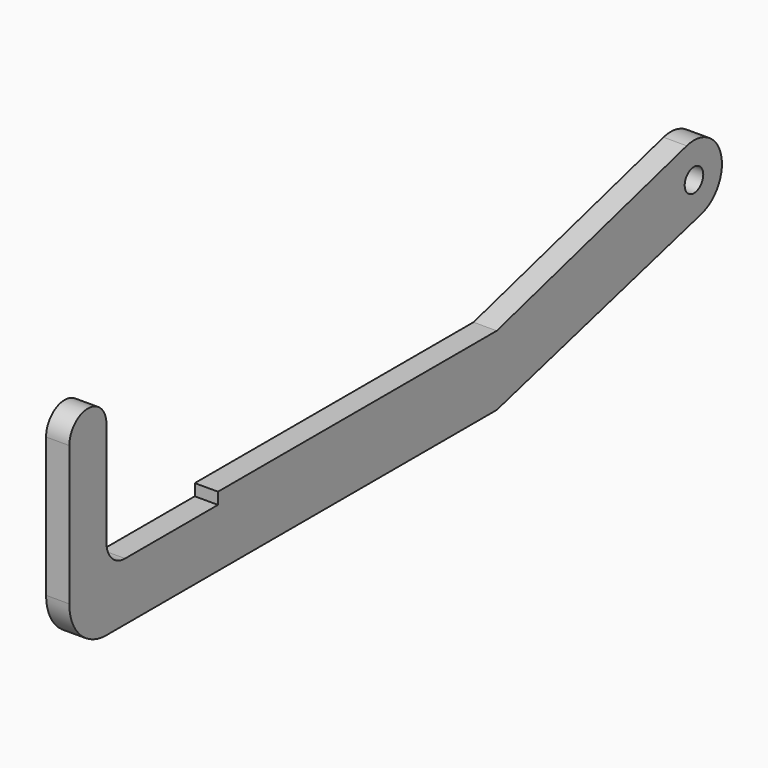
from build123d import *

# Parameters (mm, degrees)
F2_DEPTH = 1.5875
F1_R     = 1.5875
F3_DEPTH = 12.7


with BuildPart() as f2:
    # F0 (on Right) → F2 (new body, symmetric)
    with BuildSketch(Plane.YZ):
        with BuildLine():
            Line((33.637356, 34.061071), (33.637356, 48.348571))
            ThreePointArc((33.637356, 48.348571), (30.462356, 51.523571), (27.287356, 48.348571))
            Line((27.287356, 48.348571), (27.287356, 29.298571))
            ThreePointArc((27.287356, 29.298571), (29.147228, 24.808443), (33.637356, 22.948571))
            Line((33.637356, 22.948571), (100.312356, 22.948571))
            Line((100.312356, 22.948571), (135.237356, 32.306697))
            ThreePointArc((135.237356, 32.306697), (138.613932, 38.155098), (132.765531, 41.531675))
            Line((132.765531, 41.531675), (100.312356, 32.473571))
            Line((100.312356, 32.473571), (52.687356, 32.473571))
            Line((52.687356, 32.473571), (52.687356, 30.886071))
            Line((52.687356, 30.886071), (36.812356, 30.886071))
            ThreePointArc((36.812356, 30.886071), (34.567292, 31.816007), (33.637356, 34.061071))
        make_face()
    extrude(amount=F2_DEPTH, both=True)

    # F1 (on Right) → F3 (cut, symmetric)
    with BuildSketch(Plane.YZ):
        with Locations((134.001443, 36.919186)):
            Circle(F1_R)
    extrude(amount=F3_DEPTH, both=True, mode=Mode.SUBTRACT)


solid = f2.part
